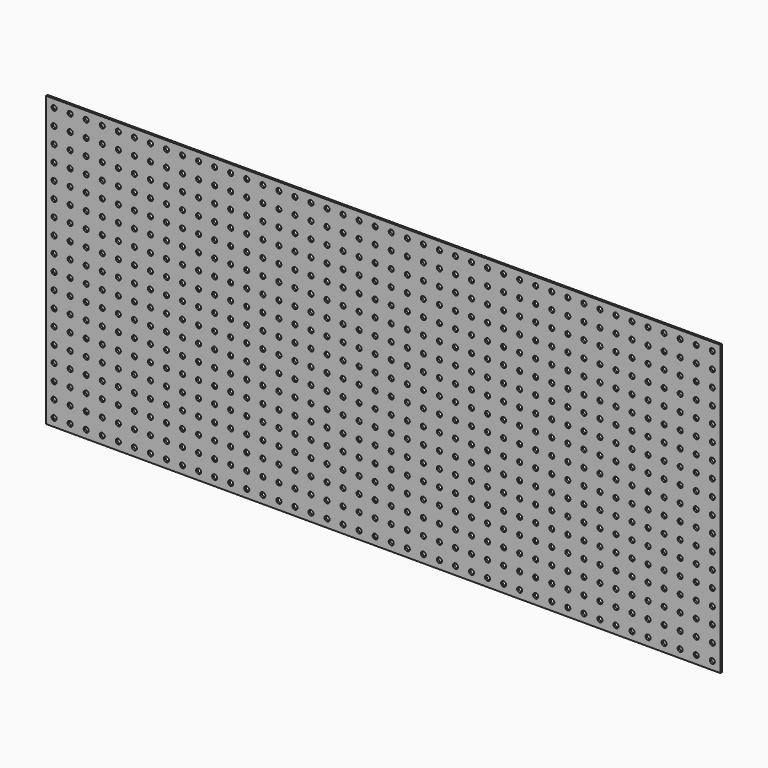
from build123d import *

# Parameters (mm, degrees)
F0_W     = 2133.6
F0_H     = 914.4
F1_DEPTH = 3.175
F2_R     = 8.001
F3_DEPTH = 6.351


with BuildPart() as f1:
    # F0 (on Front) → F1 (new body, symmetric)
    with BuildSketch(Plane.XZ):
        Rectangle(F0_W, F0_H)
    extrude(amount=F1_DEPTH, both=True)

    # F2 (on face) → F3 (cut, through all)
    with BuildSketch(Plane.XZ.offset(3.175)):
        with Locations((-1041.4, -431.8)):
            Circle(F2_R)
        with Locations((-1041.4, -381)):
            Circle(F2_R)
        with Locations((-1041.4, -330.2)):
            Circle(F2_R)
        with Locations((-1041.4, -279.4)):
            Circle(F2_R)
        with Locations((-1041.4, -228.6)):
            Circle(F2_R)
        with Locations((-1041.4, -177.8)):
            Circle(F2_R)
        with Locations((-1041.4, -127)):
            Circle(F2_R)
        with Locations((-1041.4, -76.2)):
            Circle(F2_R)
        with Locations((-1041.4, -25.4)):
            Circle(F2_R)
        with Locations((-1041.4, 25.4)):
            Circle(F2_R)
        with Locations((-1041.4, 76.2)):
            Circle(F2_R)
        with Locations((-1041.4, 127)):
            Circle(F2_R)
        with Locations((-1041.4, 177.8)):
            Circle(F2_R)
        with Locations((-1041.4, 228.6)):
            Circle(F2_R)
        with Locations((-1041.4, 279.4)):
            Circle(F2_R)
        with Locations((-1041.4, 330.2)):
            Circle(F2_R)
        with Locations((-1041.4, 381)):
            Circle(F2_R)
        with Locations((-1041.4, 431.8)):
            Circle(F2_R)
        with Locations((-990.6, -431.8)):
            Circle(F2_R)
        with Locations((-990.6, -381)):
            Circle(F2_R)
        with Locations((-990.6, -330.2)):
            Circle(F2_R)
        with Locations((-990.6, -279.4)):
            Circle(F2_R)
        with Locations((-990.6, -228.6)):
            Circle(F2_R)
        with Locations((-990.6, -177.8)):
            Circle(F2_R)
        with Locations((-990.6, -127)):
            Circle(F2_R)
        with Locations((-990.6, -76.2)):
            Circle(F2_R)
        with Locations((-990.6, -25.4)):
            Circle(F2_R)
        with Locations((-990.6, 25.4)):
            Circle(F2_R)
        with Locations((-990.6, 76.2)):
            Circle(F2_R)
        with Locations((-990.6, 127)):
            Circle(F2_R)
        with Locations((-990.6, 177.8)):
            Circle(F2_R)
        with Locations((-990.6, 228.6)):
            Circle(F2_R)
        with Locations((-990.6, 279.4)):
            Circle(F2_R)
        with Locations((-990.6, 330.2)):
            Circle(F2_R)
        with Locations((-990.6, 381)):
            Circle(F2_R)
        with Locations((-990.6, 431.8)):
            Circle(F2_R)
        with Locations((-939.8, -431.8)):
            Circle(F2_R)
        with Locations((-939.8, -381)):
            Circle(F2_R)
        with Locations((-939.8, -330.2)):
            Circle(F2_R)
        with Locations((-939.8, -279.4)):
            Circle(F2_R)
        with Locations((-939.8, -228.6)):
            Circle(F2_R)
        with Locations((-939.8, -177.8)):
            Circle(F2_R)
        with Locations((-939.8, -127)):
            Circle(F2_R)
        with Locations((-939.8, -76.2)):
            Circle(F2_R)
        with Locations((-939.8, -25.4)):
            Circle(F2_R)
        with Locations((-939.8, 25.4)):
            Circle(F2_R)
        with Locations((-939.8, 76.2)):
            Circle(F2_R)
        with Locations((-939.8, 127)):
            Circle(F2_R)
        with Locations((-939.8, 177.8)):
            Circle(F2_R)
        with Locations((-939.8, 228.6)):
            Circle(F2_R)
        with Locations((-939.8, 279.4)):
            Circle(F2_R)
        with Locations((-939.8, 330.2)):
            Circle(F2_R)
        with Locations((-939.8, 381)):
            Circle(F2_R)
        with Locations((-939.8, 431.8)):
            Circle(F2_R)
        with Locations((-889, -431.8)):
            Circle(F2_R)
        with Locations((-889, -381)):
            Circle(F2_R)
        with Locations((-889, -330.2)):
            Circle(F2_R)
        with Locations((-889, -279.4)):
            Circle(F2_R)
        with Locations((-889, -228.6)):
            Circle(F2_R)
        with Locations((-889, -177.8)):
            Circle(F2_R)
        with Locations((-889, -127)):
            Circle(F2_R)
        with Locations((-889, -76.2)):
            Circle(F2_R)
        with Locations((-889, -25.4)):
            Circle(F2_R)
        with Locations((-889, 25.4)):
            Circle(F2_R)
        with Locations((-889, 76.2)):
            Circle(F2_R)
        with Locations((-889, 127)):
            Circle(F2_R)
        with Locations((-889, 177.8)):
            Circle(F2_R)
        with Locations((-889, 228.6)):
            Circle(F2_R)
        with Locations((-889, 279.4)):
            Circle(F2_R)
        with Locations((-889, 330.2)):
            Circle(F2_R)
        with Locations((-889, 381)):
            Circle(F2_R)
        with Locations((-889, 431.8)):
            Circle(F2_R)
        with Locations((-838.2, -431.8)):
            Circle(F2_R)
        with Locations((-838.2, -381)):
            Circle(F2_R)
        with Locations((-838.2, -330.2)):
            Circle(F2_R)
        with Locations((-838.2, -279.4)):
            Circle(F2_R)
        with Locations((-838.2, -228.6)):
            Circle(F2_R)
        with Locations((-838.2, -177.8)):
            Circle(F2_R)
        with Locations((-838.2, -127)):
            Circle(F2_R)
        with Locations((-838.2, -76.2)):
            Circle(F2_R)
        with Locations((-838.2, -25.4)):
            Circle(F2_R)
        with Locations((-838.2, 25.4)):
            Circle(F2_R)
        with Locations((-838.2, 76.2)):
            Circle(F2_R)
        with Locations((-838.2, 127)):
            Circle(F2_R)
        with Locations((-838.2, 177.8)):
            Circle(F2_R)
        with Locations((-838.2, 228.6)):
            Circle(F2_R)
        with Locations((-838.2, 279.4)):
            Circle(F2_R)
        with Locations((-838.2, 330.2)):
            Circle(F2_R)
        with Locations((-838.2, 381)):
            Circle(F2_R)
        with Locations((-838.2, 431.8)):
            Circle(F2_R)
        with Locations((-787.4, -431.8)):
            Circle(F2_R)
        with Locations((-787.4, -381)):
            Circle(F2_R)
        with Locations((-787.4, -330.2)):
            Circle(F2_R)
        with Locations((-787.4, -279.4)):
            Circle(F2_R)
        with Locations((-787.4, -228.6)):
            Circle(F2_R)
        with Locations((-787.4, -177.8)):
            Circle(F2_R)
        with Locations((-787.4, -127)):
            Circle(F2_R)
        with Locations((-787.4, -76.2)):
            Circle(F2_R)
        with Locations((-787.4, -25.4)):
            Circle(F2_R)
        with Locations((-787.4, 25.4)):
            Circle(F2_R)
        with Locations((-787.4, 76.2)):
            Circle(F2_R)
        with Locations((-787.4, 127)):
            Circle(F2_R)
        with Locations((-787.4, 177.8)):
            Circle(F2_R)
        with Locations((-787.4, 228.6)):
            Circle(F2_R)
        with Locations((-787.4, 279.4)):
            Circle(F2_R)
        with Locations((-787.4, 330.2)):
            Circle(F2_R)
        with Locations((-787.4, 381)):
            Circle(F2_R)
        with Locations((-787.4, 431.8)):
            Circle(F2_R)
        with Locations((-736.6, -431.8)):
            Circle(F2_R)
        with Locations((-736.6, -381)):
            Circle(F2_R)
        with Locations((-736.6, -330.2)):
            Circle(F2_R)
        with Locations((-736.6, -279.4)):
            Circle(F2_R)
        with Locations((-736.6, -228.6)):
            Circle(F2_R)
        with Locations((-736.6, -177.8)):
            Circle(F2_R)
        with Locations((-736.6, -127)):
            Circle(F2_R)
        with Locations((-736.6, -76.2)):
            Circle(F2_R)
        with Locations((-736.6, -25.4)):
            Circle(F2_R)
        with Locations((-736.6, 25.4)):
            Circle(F2_R)
        with Locations((-736.6, 76.2)):
            Circle(F2_R)
        with Locations((-736.6, 127)):
            Circle(F2_R)
        with Locations((-736.6, 177.8)):
            Circle(F2_R)
        with Locations((-736.6, 228.6)):
            Circle(F2_R)
        with Locations((-736.6, 279.4)):
            Circle(F2_R)
        with Locations((-736.6, 330.2)):
            Circle(F2_R)
        with Locations((-736.6, 381)):
            Circle(F2_R)
        with Locations((-736.6, 431.8)):
            Circle(F2_R)
        with Locations((-685.8, -431.8)):
            Circle(F2_R)
        with Locations((-685.8, -381)):
            Circle(F2_R)
        with Locations((-685.8, -330.2)):
            Circle(F2_R)
        with Locations((-685.8, -279.4)):
            Circle(F2_R)
        with Locations((-685.8, -228.6)):
            Circle(F2_R)
        with Locations((-685.8, -177.8)):
            Circle(F2_R)
        with Locations((-685.8, -127)):
            Circle(F2_R)
        with Locations((-685.8, -76.2)):
            Circle(F2_R)
        with Locations((-685.8, -25.4)):
            Circle(F2_R)
        with Locations((-685.8, 25.4)):
            Circle(F2_R)
        with Locations((-685.8, 76.2)):
            Circle(F2_R)
        with Locations((-685.8, 127)):
            Circle(F2_R)
        with Locations((-685.8, 177.8)):
            Circle(F2_R)
        with Locations((-685.8, 228.6)):
            Circle(F2_R)
        with Locations((-685.8, 279.4)):
            Circle(F2_R)
        with Locations((-685.8, 330.2)):
            Circle(F2_R)
        with Locations((-685.8, 381)):
            Circle(F2_R)
        with Locations((-685.8, 431.8)):
            Circle(F2_R)
        with Locations((-635, -431.8)):
            Circle(F2_R)
        with Locations((-635, -381)):
            Circle(F2_R)
        with Locations((-635, -330.2)):
            Circle(F2_R)
        with Locations((-635, -279.4)):
            Circle(F2_R)
        with Locations((-635, -228.6)):
            Circle(F2_R)
        with Locations((-635, -177.8)):
            Circle(F2_R)
        with Locations((-635, -127)):
            Circle(F2_R)
        with Locations((-635, -76.2)):
            Circle(F2_R)
        with Locations((-635, -25.4)):
            Circle(F2_R)
        with Locations((-635, 25.4)):
            Circle(F2_R)
        with Locations((-635, 76.2)):
            Circle(F2_R)
        with Locations((-635, 127)):
            Circle(F2_R)
        with Locations((-635, 177.8)):
            Circle(F2_R)
        with Locations((-635, 228.6)):
            Circle(F2_R)
        with Locations((-635, 279.4)):
            Circle(F2_R)
        with Locations((-635, 330.2)):
            Circle(F2_R)
        with Locations((-635, 381)):
            Circle(F2_R)
        with Locations((-635, 431.8)):
            Circle(F2_R)
        with Locations((-584.2, -431.8)):
            Circle(F2_R)
        with Locations((-584.2, -381)):
            Circle(F2_R)
        with Locations((-584.2, -330.2)):
            Circle(F2_R)
        with Locations((-584.2, -279.4)):
            Circle(F2_R)
        with Locations((-584.2, -228.6)):
            Circle(F2_R)
        with Locations((-584.2, -177.8)):
            Circle(F2_R)
        with Locations((-584.2, -127)):
            Circle(F2_R)
        with Locations((-584.2, -76.2)):
            Circle(F2_R)
        with Locations((-584.2, -25.4)):
            Circle(F2_R)
        with Locations((-584.2, 25.4)):
            Circle(F2_R)
        with Locations((-584.2, 76.2)):
            Circle(F2_R)
        with Locations((-584.2, 127)):
            Circle(F2_R)
        with Locations((-584.2, 177.8)):
            Circle(F2_R)
        with Locations((-584.2, 228.6)):
            Circle(F2_R)
        with Locations((-584.2, 279.4)):
            Circle(F2_R)
        with Locations((-584.2, 330.2)):
            Circle(F2_R)
        with Locations((-584.2, 381)):
            Circle(F2_R)
        with Locations((-584.2, 431.8)):
            Circle(F2_R)
        with Locations((-533.4, -431.8)):
            Circle(F2_R)
        with Locations((-533.4, -381)):
            Circle(F2_R)
        with Locations((-533.4, -330.2)):
            Circle(F2_R)
        with Locations((-533.4, -279.4)):
            Circle(F2_R)
        with Locations((-533.4, -228.6)):
            Circle(F2_R)
        with Locations((-533.4, -177.8)):
            Circle(F2_R)
        with Locations((-533.4, -127)):
            Circle(F2_R)
        with Locations((-533.4, -76.2)):
            Circle(F2_R)
        with Locations((-533.4, -25.4)):
            Circle(F2_R)
        with Locations((-533.4, 25.4)):
            Circle(F2_R)
        with Locations((-533.4, 76.2)):
            Circle(F2_R)
        with Locations((-533.4, 127)):
            Circle(F2_R)
        with Locations((-533.4, 177.8)):
            Circle(F2_R)
        with Locations((-533.4, 228.6)):
            Circle(F2_R)
        with Locations((-533.4, 279.4)):
            Circle(F2_R)
        with Locations((-533.4, 330.2)):
            Circle(F2_R)
        with Locations((-533.4, 381)):
            Circle(F2_R)
        with Locations((-533.4, 431.8)):
            Circle(F2_R)
        with Locations((-482.6, -431.8)):
            Circle(F2_R)
        with Locations((-482.6, -381)):
            Circle(F2_R)
        with Locations((-482.6, -330.2)):
            Circle(F2_R)
        with Locations((-482.6, -279.4)):
            Circle(F2_R)
        with Locations((-482.6, -228.6)):
            Circle(F2_R)
        with Locations((-482.6, -177.8)):
            Circle(F2_R)
        with Locations((-482.6, -127)):
            Circle(F2_R)
        with Locations((-482.6, -76.2)):
            Circle(F2_R)
        with Locations((-482.6, -25.4)):
            Circle(F2_R)
        with Locations((-482.6, 25.4)):
            Circle(F2_R)
        with Locations((-482.6, 76.2)):
            Circle(F2_R)
        with Locations((-482.6, 127)):
            Circle(F2_R)
        with Locations((-482.6, 177.8)):
            Circle(F2_R)
        with Locations((-482.6, 228.6)):
            Circle(F2_R)
        with Locations((-482.6, 279.4)):
            Circle(F2_R)
        with Locations((-482.6, 330.2)):
            Circle(F2_R)
        with Locations((-482.6, 381)):
            Circle(F2_R)
        with Locations((-482.6, 431.8)):
            Circle(F2_R)
        with Locations((-431.8, -431.8)):
            Circle(F2_R)
        with Locations((-431.8, -381)):
            Circle(F2_R)
        with Locations((-431.8, -330.2)):
            Circle(F2_R)
        with Locations((-431.8, -279.4)):
            Circle(F2_R)
        with Locations((-431.8, -228.6)):
            Circle(F2_R)
        with Locations((-431.8, -177.8)):
            Circle(F2_R)
        with Locations((-431.8, -127)):
            Circle(F2_R)
        with Locations((-431.8, -76.2)):
            Circle(F2_R)
        with Locations((-431.8, -25.4)):
            Circle(F2_R)
        with Locations((-431.8, 25.4)):
            Circle(F2_R)
        with Locations((-431.8, 76.2)):
            Circle(F2_R)
        with Locations((-431.8, 127)):
            Circle(F2_R)
        with Locations((-431.8, 177.8)):
            Circle(F2_R)
        with Locations((-431.8, 228.6)):
            Circle(F2_R)
        with Locations((-431.8, 279.4)):
            Circle(F2_R)
        with Locations((-431.8, 330.2)):
            Circle(F2_R)
        with Locations((-431.8, 381)):
            Circle(F2_R)
        with Locations((-431.8, 431.8)):
            Circle(F2_R)
        with Locations((-381, -431.8)):
            Circle(F2_R)
        with Locations((-381, -381)):
            Circle(F2_R)
        with Locations((-381, -330.2)):
            Circle(F2_R)
        with Locations((-381, -279.4)):
            Circle(F2_R)
        with Locations((-381, -228.6)):
            Circle(F2_R)
        with Locations((-381, -177.8)):
            Circle(F2_R)
        with Locations((-381, -127)):
            Circle(F2_R)
        with Locations((-381, -76.2)):
            Circle(F2_R)
        with Locations((-381, -25.4)):
            Circle(F2_R)
        with Locations((-381, 25.4)):
            Circle(F2_R)
        with Locations((-381, 76.2)):
            Circle(F2_R)
        with Locations((-381, 127)):
            Circle(F2_R)
        with Locations((-381, 177.8)):
            Circle(F2_R)
        with Locations((-381, 228.6)):
            Circle(F2_R)
        with Locations((-381, 279.4)):
            Circle(F2_R)
        with Locations((-381, 330.2)):
            Circle(F2_R)
        with Locations((-381, 381)):
            Circle(F2_R)
        with Locations((-381, 431.8)):
            Circle(F2_R)
        with Locations((-330.2, -431.8)):
            Circle(F2_R)
        with Locations((-330.2, -381)):
            Circle(F2_R)
        with Locations((-330.2, -330.2)):
            Circle(F2_R)
        with Locations((-330.2, -279.4)):
            Circle(F2_R)
        with Locations((-330.2, -228.6)):
            Circle(F2_R)
        with Locations((-330.2, -177.8)):
            Circle(F2_R)
        with Locations((-330.2, -127)):
            Circle(F2_R)
        with Locations((-330.2, -76.2)):
            Circle(F2_R)
        with Locations((-330.2, -25.4)):
            Circle(F2_R)
        with Locations((-330.2, 25.4)):
            Circle(F2_R)
        with Locations((-330.2, 76.2)):
            Circle(F2_R)
        with Locations((-330.2, 127)):
            Circle(F2_R)
        with Locations((-330.2, 177.8)):
            Circle(F2_R)
        with Locations((-330.2, 228.6)):
            Circle(F2_R)
        with Locations((-330.2, 279.4)):
            Circle(F2_R)
        with Locations((-330.2, 330.2)):
            Circle(F2_R)
        with Locations((-330.2, 381)):
            Circle(F2_R)
        with Locations((-330.2, 431.8)):
            Circle(F2_R)
        with Locations((-279.4, -431.8)):
            Circle(F2_R)
        with Locations((-279.4, -381)):
            Circle(F2_R)
        with Locations((-279.4, -330.2)):
            Circle(F2_R)
        with Locations((-279.4, -279.4)):
            Circle(F2_R)
        with Locations((-279.4, -228.6)):
            Circle(F2_R)
        with Locations((-279.4, -177.8)):
            Circle(F2_R)
        with Locations((-279.4, -127)):
            Circle(F2_R)
        with Locations((-279.4, -76.2)):
            Circle(F2_R)
        with Locations((-279.4, -25.4)):
            Circle(F2_R)
        with Locations((-279.4, 25.4)):
            Circle(F2_R)
        with Locations((-279.4, 76.2)):
            Circle(F2_R)
        with Locations((-279.4, 127)):
            Circle(F2_R)
        with Locations((-279.4, 177.8)):
            Circle(F2_R)
        with Locations((-279.4, 228.6)):
            Circle(F2_R)
        with Locations((-279.4, 279.4)):
            Circle(F2_R)
        with Locations((-279.4, 330.2)):
            Circle(F2_R)
        with Locations((-279.4, 381)):
            Circle(F2_R)
        with Locations((-279.4, 431.8)):
            Circle(F2_R)
        with Locations((-228.6, -431.8)):
            Circle(F2_R)
        with Locations((-228.6, -381)):
            Circle(F2_R)
        with Locations((-228.6, -330.2)):
            Circle(F2_R)
        with Locations((-228.6, -279.4)):
            Circle(F2_R)
        with Locations((-228.6, -228.6)):
            Circle(F2_R)
        with Locations((-228.6, -177.8)):
            Circle(F2_R)
        with Locations((-228.6, -127)):
            Circle(F2_R)
        with Locations((-228.6, -76.2)):
            Circle(F2_R)
        with Locations((-228.6, -25.4)):
            Circle(F2_R)
        with Locations((-228.6, 25.4)):
            Circle(F2_R)
        with Locations((-228.6, 76.2)):
            Circle(F2_R)
        with Locations((-228.6, 127)):
            Circle(F2_R)
        with Locations((-228.6, 177.8)):
            Circle(F2_R)
        with Locations((-228.6, 228.6)):
            Circle(F2_R)
        with Locations((-228.6, 279.4)):
            Circle(F2_R)
        with Locations((-228.6, 330.2)):
            Circle(F2_R)
        with Locations((-228.6, 381)):
            Circle(F2_R)
        with Locations((-228.6, 431.8)):
            Circle(F2_R)
        with Locations((-177.8, -431.8)):
            Circle(F2_R)
        with Locations((-177.8, -381)):
            Circle(F2_R)
        with Locations((-177.8, -330.2)):
            Circle(F2_R)
        with Locations((-177.8, -279.4)):
            Circle(F2_R)
        with Locations((-177.8, -228.6)):
            Circle(F2_R)
        with Locations((-177.8, -177.8)):
            Circle(F2_R)
        with Locations((-177.8, -127)):
            Circle(F2_R)
        with Locations((-177.8, -76.2)):
            Circle(F2_R)
        with Locations((-177.8, -25.4)):
            Circle(F2_R)
        with Locations((-177.8, 25.4)):
            Circle(F2_R)
        with Locations((-177.8, 76.2)):
            Circle(F2_R)
        with Locations((-177.8, 127)):
            Circle(F2_R)
        with Locations((-177.8, 177.8)):
            Circle(F2_R)
        with Locations((-177.8, 228.6)):
            Circle(F2_R)
        with Locations((-177.8, 279.4)):
            Circle(F2_R)
        with Locations((-177.8, 330.2)):
            Circle(F2_R)
        with Locations((-177.8, 381)):
            Circle(F2_R)
        with Locations((-177.8, 431.8)):
            Circle(F2_R)
        with Locations((-127, -431.8)):
            Circle(F2_R)
        with Locations((-127, -381)):
            Circle(F2_R)
        with Locations((-127, -330.2)):
            Circle(F2_R)
        with Locations((-127, -279.4)):
            Circle(F2_R)
        with Locations((-127, -228.6)):
            Circle(F2_R)
        with Locations((-127, -177.8)):
            Circle(F2_R)
        with Locations((-127, -127)):
            Circle(F2_R)
        with Locations((-127, -76.2)):
            Circle(F2_R)
        with Locations((-127, -25.4)):
            Circle(F2_R)
        with Locations((-127, 25.4)):
            Circle(F2_R)
        with Locations((-127, 76.2)):
            Circle(F2_R)
        with Locations((-127, 127)):
            Circle(F2_R)
        with Locations((-127, 177.8)):
            Circle(F2_R)
        with Locations((-127, 228.6)):
            Circle(F2_R)
        with Locations((-127, 279.4)):
            Circle(F2_R)
        with Locations((-127, 330.2)):
            Circle(F2_R)
        with Locations((-127, 381)):
            Circle(F2_R)
        with Locations((-127, 431.8)):
            Circle(F2_R)
        with Locations((-76.2, -431.8)):
            Circle(F2_R)
        with Locations((-76.2, -381)):
            Circle(F2_R)
        with Locations((-76.2, -330.2)):
            Circle(F2_R)
        with Locations((-76.2, -279.4)):
            Circle(F2_R)
        with Locations((-76.2, -228.6)):
            Circle(F2_R)
        with Locations((-76.2, -177.8)):
            Circle(F2_R)
        with Locations((-76.2, -127)):
            Circle(F2_R)
        with Locations((-76.2, -76.2)):
            Circle(F2_R)
        with Locations((-76.2, -25.4)):
            Circle(F2_R)
        with Locations((-76.2, 25.4)):
            Circle(F2_R)
        with Locations((-76.2, 76.2)):
            Circle(F2_R)
        with Locations((-76.2, 127)):
            Circle(F2_R)
        with Locations((-76.2, 177.8)):
            Circle(F2_R)
        with Locations((-76.2, 228.6)):
            Circle(F2_R)
        with Locations((-76.2, 279.4)):
            Circle(F2_R)
        with Locations((-76.2, 330.2)):
            Circle(F2_R)
        with Locations((-76.2, 381)):
            Circle(F2_R)
        with Locations((-76.2, 431.8)):
            Circle(F2_R)
        with Locations((-25.4, -431.8)):
            Circle(F2_R)
        with Locations((-25.4, -381)):
            Circle(F2_R)
        with Locations((-25.4, -330.2)):
            Circle(F2_R)
        with Locations((-25.4, -279.4)):
            Circle(F2_R)
        with Locations((-25.4, -228.6)):
            Circle(F2_R)
        with Locations((-25.4, -177.8)):
            Circle(F2_R)
        with Locations((-25.4, -127)):
            Circle(F2_R)
        with Locations((-25.4, -76.2)):
            Circle(F2_R)
        with Locations((-25.4, -25.4)):
            Circle(F2_R)
        with Locations((-25.4, 25.4)):
            Circle(F2_R)
        with Locations((-25.4, 76.2)):
            Circle(F2_R)
        with Locations((-25.4, 127)):
            Circle(F2_R)
        with Locations((-25.4, 177.8)):
            Circle(F2_R)
        with Locations((-25.4, 228.6)):
            Circle(F2_R)
        with Locations((-25.4, 279.4)):
            Circle(F2_R)
        with Locations((-25.4, 330.2)):
            Circle(F2_R)
        with Locations((-25.4, 381)):
            Circle(F2_R)
        with Locations((-25.4, 431.8)):
            Circle(F2_R)
        with Locations((25.4, -431.8)):
            Circle(F2_R)
        with Locations((25.4, -381)):
            Circle(F2_R)
        with Locations((25.4, -330.2)):
            Circle(F2_R)
        with Locations((25.4, -279.4)):
            Circle(F2_R)
        with Locations((25.4, -228.6)):
            Circle(F2_R)
        with Locations((25.4, -177.8)):
            Circle(F2_R)
        with Locations((25.4, -127)):
            Circle(F2_R)
        with Locations((25.4, -76.2)):
            Circle(F2_R)
        with Locations((25.4, -25.4)):
            Circle(F2_R)
        with Locations((25.4, 25.4)):
            Circle(F2_R)
        with Locations((25.4, 76.2)):
            Circle(F2_R)
        with Locations((25.4, 127)):
            Circle(F2_R)
        with Locations((25.4, 177.8)):
            Circle(F2_R)
        with Locations((25.4, 228.6)):
            Circle(F2_R)
        with Locations((25.4, 279.4)):
            Circle(F2_R)
        with Locations((25.4, 330.2)):
            Circle(F2_R)
        with Locations((25.4, 381)):
            Circle(F2_R)
        with Locations((25.4, 431.8)):
            Circle(F2_R)
        with Locations((76.2, -431.8)):
            Circle(F2_R)
        with Locations((76.2, -381)):
            Circle(F2_R)
        with Locations((76.2, -330.2)):
            Circle(F2_R)
        with Locations((76.2, -279.4)):
            Circle(F2_R)
        with Locations((76.2, -228.6)):
            Circle(F2_R)
        with Locations((76.2, -177.8)):
            Circle(F2_R)
        with Locations((76.2, -127)):
            Circle(F2_R)
        with Locations((76.2, -76.2)):
            Circle(F2_R)
        with Locations((76.2, -25.4)):
            Circle(F2_R)
        with Locations((76.2, 25.4)):
            Circle(F2_R)
        with Locations((76.2, 76.2)):
            Circle(F2_R)
        with Locations((76.2, 127)):
            Circle(F2_R)
        with Locations((76.2, 177.8)):
            Circle(F2_R)
        with Locations((76.2, 228.6)):
            Circle(F2_R)
        with Locations((76.2, 279.4)):
            Circle(F2_R)
        with Locations((76.2, 330.2)):
            Circle(F2_R)
        with Locations((76.2, 381)):
            Circle(F2_R)
        with Locations((76.2, 431.8)):
            Circle(F2_R)
        with Locations((127, -431.8)):
            Circle(F2_R)
        with Locations((127, -381)):
            Circle(F2_R)
        with Locations((127, -330.2)):
            Circle(F2_R)
        with Locations((127, -279.4)):
            Circle(F2_R)
        with Locations((127, -228.6)):
            Circle(F2_R)
        with Locations((127, -177.8)):
            Circle(F2_R)
        with Locations((127, -127)):
            Circle(F2_R)
        with Locations((127, -76.2)):
            Circle(F2_R)
        with Locations((127, -25.4)):
            Circle(F2_R)
        with Locations((127, 25.4)):
            Circle(F2_R)
        with Locations((127, 76.2)):
            Circle(F2_R)
        with Locations((127, 127)):
            Circle(F2_R)
        with Locations((127, 177.8)):
            Circle(F2_R)
        with Locations((127, 228.6)):
            Circle(F2_R)
        with Locations((127, 279.4)):
            Circle(F2_R)
        with Locations((127, 330.2)):
            Circle(F2_R)
        with Locations((127, 381)):
            Circle(F2_R)
        with Locations((127, 431.8)):
            Circle(F2_R)
        with Locations((177.8, -431.8)):
            Circle(F2_R)
        with Locations((177.8, -381)):
            Circle(F2_R)
        with Locations((177.8, -330.2)):
            Circle(F2_R)
        with Locations((177.8, -279.4)):
            Circle(F2_R)
        with Locations((177.8, -228.6)):
            Circle(F2_R)
        with Locations((177.8, -177.8)):
            Circle(F2_R)
        with Locations((177.8, -127)):
            Circle(F2_R)
        with Locations((177.8, -76.2)):
            Circle(F2_R)
        with Locations((177.8, -25.4)):
            Circle(F2_R)
        with Locations((177.8, 25.4)):
            Circle(F2_R)
        with Locations((177.8, 76.2)):
            Circle(F2_R)
        with Locations((177.8, 127)):
            Circle(F2_R)
        with Locations((177.8, 177.8)):
            Circle(F2_R)
        with Locations((177.8, 228.6)):
            Circle(F2_R)
        with Locations((177.8, 279.4)):
            Circle(F2_R)
        with Locations((177.8, 330.2)):
            Circle(F2_R)
        with Locations((177.8, 381)):
            Circle(F2_R)
        with Locations((177.8, 431.8)):
            Circle(F2_R)
        with Locations((228.6, -431.8)):
            Circle(F2_R)
        with Locations((228.6, -381)):
            Circle(F2_R)
        with Locations((228.6, -330.2)):
            Circle(F2_R)
        with Locations((228.6, -279.4)):
            Circle(F2_R)
        with Locations((228.6, -228.6)):
            Circle(F2_R)
        with Locations((228.6, -177.8)):
            Circle(F2_R)
        with Locations((228.6, -127)):
            Circle(F2_R)
        with Locations((228.6, -76.2)):
            Circle(F2_R)
        with Locations((228.6, -25.4)):
            Circle(F2_R)
        with Locations((228.6, 25.4)):
            Circle(F2_R)
        with Locations((228.6, 76.2)):
            Circle(F2_R)
        with Locations((228.6, 127)):
            Circle(F2_R)
        with Locations((228.6, 177.8)):
            Circle(F2_R)
        with Locations((228.6, 228.6)):
            Circle(F2_R)
        with Locations((228.6, 279.4)):
            Circle(F2_R)
        with Locations((228.6, 330.2)):
            Circle(F2_R)
        with Locations((228.6, 381)):
            Circle(F2_R)
        with Locations((228.6, 431.8)):
            Circle(F2_R)
        with Locations((279.4, -431.8)):
            Circle(F2_R)
        with Locations((279.4, -381)):
            Circle(F2_R)
        with Locations((279.4, -330.2)):
            Circle(F2_R)
        with Locations((279.4, -279.4)):
            Circle(F2_R)
        with Locations((279.4, -228.6)):
            Circle(F2_R)
        with Locations((279.4, -177.8)):
            Circle(F2_R)
        with Locations((279.4, -127)):
            Circle(F2_R)
        with Locations((279.4, -76.2)):
            Circle(F2_R)
        with Locations((279.4, -25.4)):
            Circle(F2_R)
        with Locations((279.4, 25.4)):
            Circle(F2_R)
        with Locations((279.4, 76.2)):
            Circle(F2_R)
        with Locations((279.4, 127)):
            Circle(F2_R)
        with Locations((279.4, 177.8)):
            Circle(F2_R)
        with Locations((279.4, 228.6)):
            Circle(F2_R)
        with Locations((279.4, 279.4)):
            Circle(F2_R)
        with Locations((279.4, 330.2)):
            Circle(F2_R)
        with Locations((279.4, 381)):
            Circle(F2_R)
        with Locations((279.4, 431.8)):
            Circle(F2_R)
        with Locations((330.2, -431.8)):
            Circle(F2_R)
        with Locations((330.2, -381)):
            Circle(F2_R)
        with Locations((330.2, -330.2)):
            Circle(F2_R)
        with Locations((330.2, -279.4)):
            Circle(F2_R)
        with Locations((330.2, -228.6)):
            Circle(F2_R)
        with Locations((330.2, -177.8)):
            Circle(F2_R)
        with Locations((330.2, -127)):
            Circle(F2_R)
        with Locations((330.2, -76.2)):
            Circle(F2_R)
        with Locations((330.2, -25.4)):
            Circle(F2_R)
        with Locations((330.2, 25.4)):
            Circle(F2_R)
        with Locations((330.2, 76.2)):
            Circle(F2_R)
        with Locations((330.2, 127)):
            Circle(F2_R)
        with Locations((330.2, 177.8)):
            Circle(F2_R)
        with Locations((330.2, 228.6)):
            Circle(F2_R)
        with Locations((330.2, 279.4)):
            Circle(F2_R)
        with Locations((330.2, 330.2)):
            Circle(F2_R)
        with Locations((330.2, 381)):
            Circle(F2_R)
        with Locations((330.2, 431.8)):
            Circle(F2_R)
        with Locations((381, -431.8)):
            Circle(F2_R)
        with Locations((381, -381)):
            Circle(F2_R)
        with Locations((381, -330.2)):
            Circle(F2_R)
        with Locations((381, -279.4)):
            Circle(F2_R)
        with Locations((381, -228.6)):
            Circle(F2_R)
        with Locations((381, -177.8)):
            Circle(F2_R)
        with Locations((381, -127)):
            Circle(F2_R)
        with Locations((381, -76.2)):
            Circle(F2_R)
        with Locations((381, -25.4)):
            Circle(F2_R)
        with Locations((381, 25.4)):
            Circle(F2_R)
        with Locations((381, 76.2)):
            Circle(F2_R)
        with Locations((381, 127)):
            Circle(F2_R)
        with Locations((381, 177.8)):
            Circle(F2_R)
        with Locations((381, 228.6)):
            Circle(F2_R)
        with Locations((381, 279.4)):
            Circle(F2_R)
        with Locations((381, 330.2)):
            Circle(F2_R)
        with Locations((381, 381)):
            Circle(F2_R)
        with Locations((381, 431.8)):
            Circle(F2_R)
        with Locations((431.8, -431.8)):
            Circle(F2_R)
        with Locations((431.8, -381)):
            Circle(F2_R)
        with Locations((431.8, -330.2)):
            Circle(F2_R)
        with Locations((431.8, -279.4)):
            Circle(F2_R)
        with Locations((431.8, -228.6)):
            Circle(F2_R)
        with Locations((431.8, -177.8)):
            Circle(F2_R)
        with Locations((431.8, -127)):
            Circle(F2_R)
        with Locations((431.8, -76.2)):
            Circle(F2_R)
        with Locations((431.8, -25.4)):
            Circle(F2_R)
        with Locations((431.8, 25.4)):
            Circle(F2_R)
        with Locations((431.8, 76.2)):
            Circle(F2_R)
        with Locations((431.8, 127)):
            Circle(F2_R)
        with Locations((431.8, 177.8)):
            Circle(F2_R)
        with Locations((431.8, 228.6)):
            Circle(F2_R)
        with Locations((431.8, 279.4)):
            Circle(F2_R)
        with Locations((431.8, 330.2)):
            Circle(F2_R)
        with Locations((431.8, 381)):
            Circle(F2_R)
        with Locations((431.8, 431.8)):
            Circle(F2_R)
        with Locations((482.6, -431.8)):
            Circle(F2_R)
        with Locations((482.6, -381)):
            Circle(F2_R)
        with Locations((482.6, -330.2)):
            Circle(F2_R)
        with Locations((482.6, -279.4)):
            Circle(F2_R)
        with Locations((482.6, -228.6)):
            Circle(F2_R)
        with Locations((482.6, -177.8)):
            Circle(F2_R)
        with Locations((482.6, -127)):
            Circle(F2_R)
        with Locations((482.6, -76.2)):
            Circle(F2_R)
        with Locations((482.6, -25.4)):
            Circle(F2_R)
        with Locations((482.6, 25.4)):
            Circle(F2_R)
        with Locations((482.6, 76.2)):
            Circle(F2_R)
        with Locations((482.6, 127)):
            Circle(F2_R)
        with Locations((482.6, 177.8)):
            Circle(F2_R)
        with Locations((482.6, 228.6)):
            Circle(F2_R)
        with Locations((482.6, 279.4)):
            Circle(F2_R)
        with Locations((482.6, 330.2)):
            Circle(F2_R)
        with Locations((482.6, 381)):
            Circle(F2_R)
        with Locations((482.6, 431.8)):
            Circle(F2_R)
        with Locations((533.4, -431.8)):
            Circle(F2_R)
        with Locations((533.4, -381)):
            Circle(F2_R)
        with Locations((533.4, -330.2)):
            Circle(F2_R)
        with Locations((533.4, -279.4)):
            Circle(F2_R)
        with Locations((533.4, -228.6)):
            Circle(F2_R)
        with Locations((533.4, -177.8)):
            Circle(F2_R)
        with Locations((533.4, -127)):
            Circle(F2_R)
        with Locations((533.4, -76.2)):
            Circle(F2_R)
        with Locations((533.4, -25.4)):
            Circle(F2_R)
        with Locations((533.4, 25.4)):
            Circle(F2_R)
        with Locations((533.4, 76.2)):
            Circle(F2_R)
        with Locations((533.4, 127)):
            Circle(F2_R)
        with Locations((533.4, 177.8)):
            Circle(F2_R)
        with Locations((533.4, 228.6)):
            Circle(F2_R)
        with Locations((533.4, 279.4)):
            Circle(F2_R)
        with Locations((533.4, 330.2)):
            Circle(F2_R)
        with Locations((533.4, 381)):
            Circle(F2_R)
        with Locations((533.4, 431.8)):
            Circle(F2_R)
        with Locations((584.2, -431.8)):
            Circle(F2_R)
        with Locations((584.2, -381)):
            Circle(F2_R)
        with Locations((584.2, -330.2)):
            Circle(F2_R)
        with Locations((584.2, -279.4)):
            Circle(F2_R)
        with Locations((584.2, -228.6)):
            Circle(F2_R)
        with Locations((584.2, -177.8)):
            Circle(F2_R)
        with Locations((584.2, -127)):
            Circle(F2_R)
        with Locations((584.2, -76.2)):
            Circle(F2_R)
        with Locations((584.2, -25.4)):
            Circle(F2_R)
        with Locations((584.2, 25.4)):
            Circle(F2_R)
        with Locations((584.2, 76.2)):
            Circle(F2_R)
        with Locations((584.2, 127)):
            Circle(F2_R)
        with Locations((584.2, 177.8)):
            Circle(F2_R)
        with Locations((584.2, 228.6)):
            Circle(F2_R)
        with Locations((584.2, 279.4)):
            Circle(F2_R)
        with Locations((584.2, 330.2)):
            Circle(F2_R)
        with Locations((584.2, 381)):
            Circle(F2_R)
        with Locations((584.2, 431.8)):
            Circle(F2_R)
        with Locations((635, -431.8)):
            Circle(F2_R)
        with Locations((635, -381)):
            Circle(F2_R)
        with Locations((635, -330.2)):
            Circle(F2_R)
        with Locations((635, -279.4)):
            Circle(F2_R)
        with Locations((635, -228.6)):
            Circle(F2_R)
        with Locations((635, -177.8)):
            Circle(F2_R)
        with Locations((635, -127)):
            Circle(F2_R)
        with Locations((635, -76.2)):
            Circle(F2_R)
        with Locations((635, -25.4)):
            Circle(F2_R)
        with Locations((635, 25.4)):
            Circle(F2_R)
        with Locations((635, 76.2)):
            Circle(F2_R)
        with Locations((635, 127)):
            Circle(F2_R)
        with Locations((635, 177.8)):
            Circle(F2_R)
        with Locations((635, 228.6)):
            Circle(F2_R)
        with Locations((635, 279.4)):
            Circle(F2_R)
        with Locations((635, 330.2)):
            Circle(F2_R)
        with Locations((635, 381)):
            Circle(F2_R)
        with Locations((635, 431.8)):
            Circle(F2_R)
        with Locations((685.8, -431.8)):
            Circle(F2_R)
        with Locations((685.8, -381)):
            Circle(F2_R)
        with Locations((685.8, -330.2)):
            Circle(F2_R)
        with Locations((685.8, -279.4)):
            Circle(F2_R)
        with Locations((685.8, -228.6)):
            Circle(F2_R)
        with Locations((685.8, -177.8)):
            Circle(F2_R)
        with Locations((685.8, -127)):
            Circle(F2_R)
        with Locations((685.8, -76.2)):
            Circle(F2_R)
        with Locations((685.8, -25.4)):
            Circle(F2_R)
        with Locations((685.8, 25.4)):
            Circle(F2_R)
        with Locations((685.8, 76.2)):
            Circle(F2_R)
        with Locations((685.8, 127)):
            Circle(F2_R)
        with Locations((685.8, 177.8)):
            Circle(F2_R)
        with Locations((685.8, 228.6)):
            Circle(F2_R)
        with Locations((685.8, 279.4)):
            Circle(F2_R)
        with Locations((685.8, 330.2)):
            Circle(F2_R)
        with Locations((685.8, 381)):
            Circle(F2_R)
        with Locations((685.8, 431.8)):
            Circle(F2_R)
        with Locations((736.6, -431.8)):
            Circle(F2_R)
        with Locations((736.6, -381)):
            Circle(F2_R)
        with Locations((736.6, -330.2)):
            Circle(F2_R)
        with Locations((736.6, -279.4)):
            Circle(F2_R)
        with Locations((736.6, -228.6)):
            Circle(F2_R)
        with Locations((736.6, -177.8)):
            Circle(F2_R)
        with Locations((736.6, -127)):
            Circle(F2_R)
        with Locations((736.6, -76.2)):
            Circle(F2_R)
        with Locations((736.6, -25.4)):
            Circle(F2_R)
        with Locations((736.6, 25.4)):
            Circle(F2_R)
        with Locations((736.6, 76.2)):
            Circle(F2_R)
        with Locations((736.6, 127)):
            Circle(F2_R)
        with Locations((736.6, 177.8)):
            Circle(F2_R)
        with Locations((736.6, 228.6)):
            Circle(F2_R)
        with Locations((736.6, 279.4)):
            Circle(F2_R)
        with Locations((736.6, 330.2)):
            Circle(F2_R)
        with Locations((736.6, 381)):
            Circle(F2_R)
        with Locations((736.6, 431.8)):
            Circle(F2_R)
        with Locations((787.4, -431.8)):
            Circle(F2_R)
        with Locations((787.4, -381)):
            Circle(F2_R)
        with Locations((787.4, -330.2)):
            Circle(F2_R)
        with Locations((787.4, -279.4)):
            Circle(F2_R)
        with Locations((787.4, -228.6)):
            Circle(F2_R)
        with Locations((787.4, -177.8)):
            Circle(F2_R)
        with Locations((787.4, -127)):
            Circle(F2_R)
        with Locations((787.4, -76.2)):
            Circle(F2_R)
        with Locations((787.4, -25.4)):
            Circle(F2_R)
        with Locations((787.4, 25.4)):
            Circle(F2_R)
        with Locations((787.4, 76.2)):
            Circle(F2_R)
        with Locations((787.4, 127)):
            Circle(F2_R)
        with Locations((787.4, 177.8)):
            Circle(F2_R)
        with Locations((787.4, 228.6)):
            Circle(F2_R)
        with Locations((787.4, 279.4)):
            Circle(F2_R)
        with Locations((787.4, 330.2)):
            Circle(F2_R)
        with Locations((787.4, 381)):
            Circle(F2_R)
        with Locations((787.4, 431.8)):
            Circle(F2_R)
        with Locations((838.2, -431.8)):
            Circle(F2_R)
        with Locations((838.2, -381)):
            Circle(F2_R)
        with Locations((838.2, -330.2)):
            Circle(F2_R)
        with Locations((838.2, -279.4)):
            Circle(F2_R)
        with Locations((838.2, -228.6)):
            Circle(F2_R)
        with Locations((838.2, -177.8)):
            Circle(F2_R)
        with Locations((838.2, -127)):
            Circle(F2_R)
        with Locations((838.2, -76.2)):
            Circle(F2_R)
        with Locations((838.2, -25.4)):
            Circle(F2_R)
        with Locations((838.2, 25.4)):
            Circle(F2_R)
        with Locations((838.2, 76.2)):
            Circle(F2_R)
        with Locations((838.2, 127)):
            Circle(F2_R)
        with Locations((838.2, 177.8)):
            Circle(F2_R)
        with Locations((838.2, 228.6)):
            Circle(F2_R)
        with Locations((838.2, 279.4)):
            Circle(F2_R)
        with Locations((838.2, 330.2)):
            Circle(F2_R)
        with Locations((838.2, 381)):
            Circle(F2_R)
        with Locations((838.2, 431.8)):
            Circle(F2_R)
        with Locations((889, -431.8)):
            Circle(F2_R)
        with Locations((889, -381)):
            Circle(F2_R)
        with Locations((889, -330.2)):
            Circle(F2_R)
        with Locations((889, -279.4)):
            Circle(F2_R)
        with Locations((889, -228.6)):
            Circle(F2_R)
        with Locations((889, -177.8)):
            Circle(F2_R)
        with Locations((889, -127)):
            Circle(F2_R)
        with Locations((889, -76.2)):
            Circle(F2_R)
        with Locations((889, -25.4)):
            Circle(F2_R)
        with Locations((889, 25.4)):
            Circle(F2_R)
        with Locations((889, 76.2)):
            Circle(F2_R)
        with Locations((889, 127)):
            Circle(F2_R)
        with Locations((889, 177.8)):
            Circle(F2_R)
        with Locations((889, 228.6)):
            Circle(F2_R)
        with Locations((889, 279.4)):
            Circle(F2_R)
        with Locations((889, 330.2)):
            Circle(F2_R)
        with Locations((889, 381)):
            Circle(F2_R)
        with Locations((889, 431.8)):
            Circle(F2_R)
        with Locations((939.8, -431.8)):
            Circle(F2_R)
        with Locations((939.8, -381)):
            Circle(F2_R)
        with Locations((939.8, -330.2)):
            Circle(F2_R)
        with Locations((939.8, -279.4)):
            Circle(F2_R)
        with Locations((939.8, -228.6)):
            Circle(F2_R)
        with Locations((939.8, -177.8)):
            Circle(F2_R)
        with Locations((939.8, -127)):
            Circle(F2_R)
        with Locations((939.8, -76.2)):
            Circle(F2_R)
        with Locations((939.8, -25.4)):
            Circle(F2_R)
        with Locations((939.8, 25.4)):
            Circle(F2_R)
        with Locations((939.8, 76.2)):
            Circle(F2_R)
        with Locations((939.8, 127)):
            Circle(F2_R)
        with Locations((939.8, 177.8)):
            Circle(F2_R)
        with Locations((939.8, 228.6)):
            Circle(F2_R)
        with Locations((939.8, 279.4)):
            Circle(F2_R)
        with Locations((939.8, 330.2)):
            Circle(F2_R)
        with Locations((939.8, 381)):
            Circle(F2_R)
        with Locations((939.8, 431.8)):
            Circle(F2_R)
        with Locations((990.6, -431.8)):
            Circle(F2_R)
        with Locations((990.6, -381)):
            Circle(F2_R)
        with Locations((990.6, -330.2)):
            Circle(F2_R)
        with Locations((990.6, -279.4)):
            Circle(F2_R)
        with Locations((990.6, -228.6)):
            Circle(F2_R)
        with Locations((990.6, -177.8)):
            Circle(F2_R)
        with Locations((990.6, -127)):
            Circle(F2_R)
        with Locations((990.6, -76.2)):
            Circle(F2_R)
        with Locations((990.6, -25.4)):
            Circle(F2_R)
        with Locations((990.6, 25.4)):
            Circle(F2_R)
        with Locations((990.6, 76.2)):
            Circle(F2_R)
        with Locations((990.6, 127)):
            Circle(F2_R)
        with Locations((990.6, 177.8)):
            Circle(F2_R)
        with Locations((990.6, 228.6)):
            Circle(F2_R)
        with Locations((990.6, 279.4)):
            Circle(F2_R)
        with Locations((990.6, 330.2)):
            Circle(F2_R)
        with Locations((990.6, 381)):
            Circle(F2_R)
        with Locations((990.6, 431.8)):
            Circle(F2_R)
        with Locations((1041.4, -431.8)):
            Circle(F2_R)
        with Locations((1041.4, -381)):
            Circle(F2_R)
        with Locations((1041.4, -330.2)):
            Circle(F2_R)
        with Locations((1041.4, -279.4)):
            Circle(F2_R)
        with Locations((1041.4, -228.6)):
            Circle(F2_R)
        with Locations((1041.4, -177.8)):
            Circle(F2_R)
        with Locations((1041.4, -127)):
            Circle(F2_R)
        with Locations((1041.4, -76.2)):
            Circle(F2_R)
        with Locations((1041.4, -25.4)):
            Circle(F2_R)
        with Locations((1041.4, 25.4)):
            Circle(F2_R)
        with Locations((1041.4, 76.2)):
            Circle(F2_R)
        with Locations((1041.4, 127)):
            Circle(F2_R)
        with Locations((1041.4, 177.8)):
            Circle(F2_R)
        with Locations((1041.4, 228.6)):
            Circle(F2_R)
        with Locations((1041.4, 279.4)):
            Circle(F2_R)
        with Locations((1041.4, 330.2)):
            Circle(F2_R)
        with Locations((1041.4, 381)):
            Circle(F2_R)
        with Locations((1041.4, 431.8)):
            Circle(F2_R)
        with Locations((1092.2, -431.8)):
            Circle(F2_R)
        with Locations((1092.2, -381)):
            Circle(F2_R)
        with Locations((1092.2, -330.2)):
            Circle(F2_R)
        with Locations((1092.2, -279.4)):
            Circle(F2_R)
        with Locations((1092.2, -228.6)):
            Circle(F2_R)
        with Locations((1092.2, -177.8)):
            Circle(F2_R)
        with Locations((1092.2, -127)):
            Circle(F2_R)
        with Locations((1092.2, -76.2)):
            Circle(F2_R)
        with Locations((1092.2, -25.4)):
            Circle(F2_R)
        with Locations((1092.2, 25.4)):
            Circle(F2_R)
        with Locations((1092.2, 76.2)):
            Circle(F2_R)
        with Locations((1092.2, 127)):
            Circle(F2_R)
        with Locations((1092.2, 177.8)):
            Circle(F2_R)
        with Locations((1092.2, 228.6)):
            Circle(F2_R)
        with Locations((1092.2, 279.4)):
            Circle(F2_R)
        with Locations((1092.2, 330.2)):
            Circle(F2_R)
        with Locations((1092.2, 381)):
            Circle(F2_R)
        with Locations((1092.2, 431.8)):
            Circle(F2_R)
        with Locations((1143, -431.8)):
            Circle(F2_R)
        with Locations((1143, -381)):
            Circle(F2_R)
        with Locations((1143, -330.2)):
            Circle(F2_R)
        with Locations((1143, -279.4)):
            Circle(F2_R)
        with Locations((1143, -228.6)):
            Circle(F2_R)
        with Locations((1143, -177.8)):
            Circle(F2_R)
        with Locations((1143, -127)):
            Circle(F2_R)
        with Locations((1143, -76.2)):
            Circle(F2_R)
        with Locations((1143, -25.4)):
            Circle(F2_R)
        with Locations((1143, 25.4)):
            Circle(F2_R)
        with Locations((1143, 76.2)):
            Circle(F2_R)
        with Locations((1143, 127)):
            Circle(F2_R)
        with Locations((1143, 177.8)):
            Circle(F2_R)
        with Locations((1143, 228.6)):
            Circle(F2_R)
        with Locations((1143, 279.4)):
            Circle(F2_R)
        with Locations((1143, 330.2)):
            Circle(F2_R)
        with Locations((1143, 381)):
            Circle(F2_R)
        with Locations((1143, 431.8)):
            Circle(F2_R)
        with Locations((1193.8, -431.8)):
            Circle(F2_R)
        with Locations((1193.8, -381)):
            Circle(F2_R)
        with Locations((1193.8, -330.2)):
            Circle(F2_R)
        with Locations((1193.8, -279.4)):
            Circle(F2_R)
        with Locations((1193.8, -228.6)):
            Circle(F2_R)
        with Locations((1193.8, -177.8)):
            Circle(F2_R)
        with Locations((1193.8, -127)):
            Circle(F2_R)
        with Locations((1193.8, -76.2)):
            Circle(F2_R)
        with Locations((1193.8, -25.4)):
            Circle(F2_R)
        with Locations((1193.8, 25.4)):
            Circle(F2_R)
        with Locations((1193.8, 76.2)):
            Circle(F2_R)
        with Locations((1193.8, 127)):
            Circle(F2_R)
        with Locations((1193.8, 177.8)):
            Circle(F2_R)
        with Locations((1193.8, 228.6)):
            Circle(F2_R)
        with Locations((1193.8, 279.4)):
            Circle(F2_R)
        with Locations((1193.8, 330.2)):
            Circle(F2_R)
        with Locations((1193.8, 381)):
            Circle(F2_R)
        with Locations((1193.8, 431.8)):
            Circle(F2_R)
        with Locations((1244.6, -431.8)):
            Circle(F2_R)
        with Locations((1244.6, -381)):
            Circle(F2_R)
        with Locations((1244.6, -330.2)):
            Circle(F2_R)
        with Locations((1244.6, -279.4)):
            Circle(F2_R)
        with Locations((1244.6, -228.6)):
            Circle(F2_R)
        with Locations((1244.6, -177.8)):
            Circle(F2_R)
        with Locations((1244.6, -127)):
            Circle(F2_R)
        with Locations((1244.6, -76.2)):
            Circle(F2_R)
        with Locations((1244.6, -25.4)):
            Circle(F2_R)
        with Locations((1244.6, 25.4)):
            Circle(F2_R)
        with Locations((1244.6, 76.2)):
            Circle(F2_R)
        with Locations((1244.6, 127)):
            Circle(F2_R)
        with Locations((1244.6, 177.8)):
            Circle(F2_R)
        with Locations((1244.6, 228.6)):
            Circle(F2_R)
        with Locations((1244.6, 279.4)):
            Circle(F2_R)
        with Locations((1244.6, 330.2)):
            Circle(F2_R)
        with Locations((1244.6, 381)):
            Circle(F2_R)
        with Locations((1244.6, 431.8)):
            Circle(F2_R)
        with Locations((1295.4, -431.8)):
            Circle(F2_R)
        with Locations((1295.4, -381)):
            Circle(F2_R)
        with Locations((1295.4, -330.2)):
            Circle(F2_R)
        with Locations((1295.4, -279.4)):
            Circle(F2_R)
        with Locations((1295.4, -228.6)):
            Circle(F2_R)
        with Locations((1295.4, -177.8)):
            Circle(F2_R)
        with Locations((1295.4, -127)):
            Circle(F2_R)
        with Locations((1295.4, -76.2)):
            Circle(F2_R)
        with Locations((1295.4, -25.4)):
            Circle(F2_R)
        with Locations((1295.4, 25.4)):
            Circle(F2_R)
        with Locations((1295.4, 76.2)):
            Circle(F2_R)
        with Locations((1295.4, 127)):
            Circle(F2_R)
        with Locations((1295.4, 177.8)):
            Circle(F2_R)
        with Locations((1295.4, 228.6)):
            Circle(F2_R)
        with Locations((1295.4, 279.4)):
            Circle(F2_R)
        with Locations((1295.4, 330.2)):
            Circle(F2_R)
        with Locations((1295.4, 381)):
            Circle(F2_R)
        with Locations((1295.4, 431.8)):
            Circle(F2_R)
        with Locations((1346.2, -431.8)):
            Circle(F2_R)
        with Locations((1346.2, -381)):
            Circle(F2_R)
        with Locations((1346.2, -330.2)):
            Circle(F2_R)
        with Locations((1346.2, -279.4)):
            Circle(F2_R)
        with Locations((1346.2, -228.6)):
            Circle(F2_R)
        with Locations((1346.2, -177.8)):
            Circle(F2_R)
        with Locations((1346.2, -127)):
            Circle(F2_R)
        with Locations((1346.2, -76.2)):
            Circle(F2_R)
        with Locations((1346.2, -25.4)):
            Circle(F2_R)
        with Locations((1346.2, 25.4)):
            Circle(F2_R)
        with Locations((1346.2, 76.2)):
            Circle(F2_R)
        with Locations((1346.2, 127)):
            Circle(F2_R)
        with Locations((1346.2, 177.8)):
            Circle(F2_R)
        with Locations((1346.2, 228.6)):
            Circle(F2_R)
        with Locations((1346.2, 279.4)):
            Circle(F2_R)
        with Locations((1346.2, 330.2)):
            Circle(F2_R)
        with Locations((1346.2, 381)):
            Circle(F2_R)
        with Locations((1346.2, 431.8)):
            Circle(F2_R)
    extrude(amount=-F3_DEPTH, mode=Mode.SUBTRACT)


solid = f1.part
